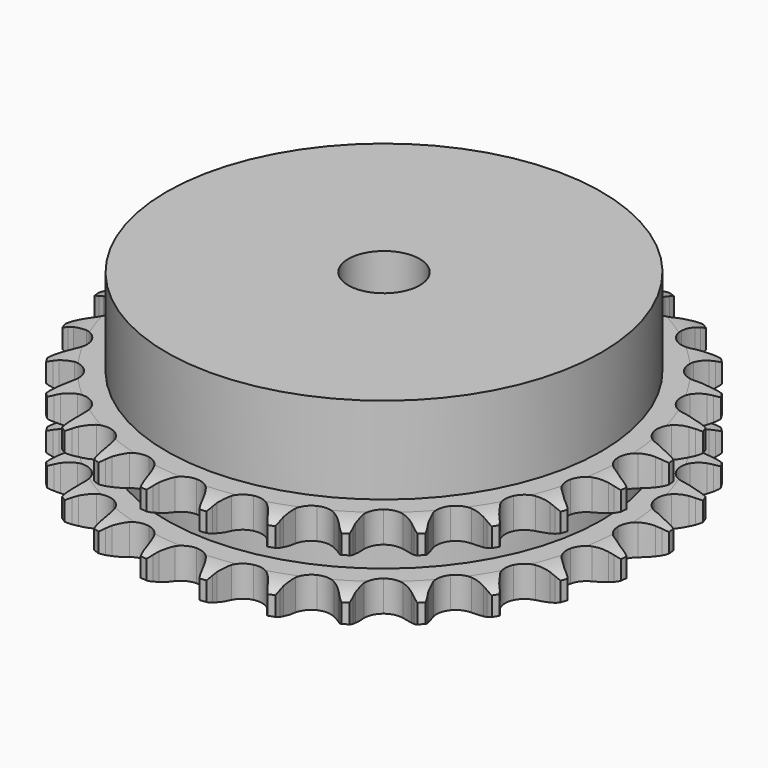
from build123d import *

# Parameters (mm, degrees)
PAD_DEPTH         = 15.4
SKETCH001_R       = 36.5
PAD001_DEPTH      = 30
SKETCH002_R       = 6
POCKET_DEPTH      = 0.001
POCKET_DEPTH_BACK = 30.001


with BuildPart() as part:
    # Sprocket → Pad (new body)
    with BuildSketch(Plane.XY):
        with BuildLine():
            ThreePointArc((-5.081632, 45.100731), (-4.462733, 44.305911), (-4.009624, 43.406207))
            Line((-4.009624, 43.406207), (-3.700215, 42.606137))
            ThreePointArc((-3.700215, 42.606137), (-3.207694, 41.556761), (-2.573921, 40.586143))
            ThreePointArc((-2.573921, 40.586143), (-1.437158, 39.644298), (0, 39.306838))
            ThreePointArc((0, 39.306838), (1.437158, 39.644298), (2.573921, 40.586143))
            ThreePointArc((2.573921, 40.586143), (3.207694, 41.556761), (3.700215, 42.606137))
            Line((3.700215, 42.606137), (4.009624, 43.406207))
            ThreePointArc((4.009624, 43.406207), (4.462733, 44.305911), (5.081632, 45.100731))
            ThreePointArc((5.081632, 45.100731), (5.508149, 44.188121), (5.749696, 43.210148))
            Line((5.749696, 43.210148), (5.873315, 42.361288))
            ThreePointArc((5.873315, 42.361288), (6.119979, 41.228626), (6.521879, 40.141315))
            ThreePointArc((6.521879, 40.141315), (7.420561, 38.970131), (8.746594, 38.321333))
            ThreePointArc((8.746594, 38.321333), (10.222812, 38.330535), (11.540654, 38.995813))
            Line((11.540654, 38.995813), (13.0882, 40.714537))
            ThreePointArc((13.0882, 40.714537), (13.318858, 41.076312), (13.567884, 41.425697))
            ThreePointArc((13.567884, 41.425697), (14.209836, 42.202017), (14.990082, 42.839192))
            ThreePointArc((14.990082, 42.839192), (15.20283, 41.854554), (15.220701, 40.847352))
            Line((15.220701, 40.847352), (15.152332, 39.992266))
            ThreePointArc((15.152332, 39.992266), (15.140771, 38.833114), (15.290645, 37.683634))
            ThreePointArc((15.290645, 37.683634), (15.906182, 36.341838), (17.054598, 35.414237))
            ThreePointArc((17.054598, 35.414237), (18.495851, 35.094719), (19.92869, 35.450069))
            Line((19.92869, 35.450069), (21.819889, 36.78134))
            ThreePointArc((21.819889, 36.78134), (22.125266, 37.082718), (22.445794, 37.36793))
            ThreePointArc((22.445794, 37.36793), (23.244398, 37.981939), (24.146866, 38.429517))
            ThreePointArc((24.146866, 38.429517), (24.135178, 37.422225), (23.928477, 36.436299))
            Line((23.928477, 36.436299), (23.671548, 35.617866))
            ThreePointArc((23.671548, 35.617866), (23.402341, 34.490349), (23.292674, 33.336338))
            ThreePointArc((23.292674, 33.336338), (23.5942, 31.891214), (24.507413, 30.731323))
            ThreePointArc((24.507413, 30.731323), (25.841431, 30.099107), (27.317419, 30.126711))
            Line((27.317419, 30.126711), (29.457437, 31.003773))
            ThreePointArc((29.457437, 31.003773), (29.822221, 31.229642), (30.198177, 31.43638))
            ThreePointArc((30.198177, 31.43638), (31.113389, 31.857287), (32.092826, 32.092826))
            ThreePointArc((32.092826, 32.092826), (31.857287, 31.113389), (31.43638, 30.198177))
            Line((31.43638, 30.198177), (31.003773, 29.457437))
            ThreePointArc((31.003773, 29.457437), (30.49042, 28.418093), (30.126711, 27.317419))
            ThreePointArc((30.126711, 27.317419), (30.099107, 25.841431), (30.731323, 24.507413))
            ThreePointArc((30.731323, 24.507413), (31.891214, 23.5942), (33.336338, 23.292674))
            Line((33.336338, 23.292674), (35.617866, 23.671548))
            ThreePointArc((35.617866, 23.671548), (36.023764, 23.810581), (36.436299, 23.928477))
            ThreePointArc((36.436299, 23.928477), (37.422225, 24.135178), (38.429517, 24.146866))
            ThreePointArc((38.429517, 24.146866), (37.981939, 23.244398), (37.36793, 22.445794))
            Line((37.36793, 22.445794), (36.78134, 21.819889))
            ThreePointArc((36.78134, 21.819889), (36.049582, 20.920835), (35.450069, 19.92869))
            ThreePointArc((35.450069, 19.92869), (35.094719, 18.495851), (35.414237, 17.054598))
            ThreePointArc((35.414237, 17.054598), (36.341838, 15.906182), (37.683634, 15.290645))
            Line((37.683634, 15.290645), (39.992266, 15.152332))
            ThreePointArc((39.992266, 15.152332), (40.418926, 15.197559), (40.847352, 15.220701))
            ThreePointArc((40.847352, 15.220701), (41.854554, 15.20283), (42.839192, 14.990082))
            ThreePointArc((42.839192, 14.990082), (42.202017, 14.209836), (41.425697, 13.567884))
            Line((41.425697, 13.567884), (40.714537, 13.0882))
            ThreePointArc((40.714537, 13.0882), (39.801067, 12.37452), (38.995813, 11.540654))
            ThreePointArc((38.995813, 11.540654), (38.330535, 10.222812), (38.321333, 8.746594))
            ThreePointArc((38.321333, 8.746594), (38.970131, 7.420561), (40.141315, 6.521879))
            Line((40.141315, 6.521879), (42.361288, 5.873315))
            ThreePointArc((42.361288, 5.873315), (42.787314, 5.822467), (43.210148, 5.749696))
            ThreePointArc((43.210148, 5.749696), (44.188121, 5.508149), (45.100731, 5.081632))
            ThreePointArc((45.100731, 5.081632), (44.305911, 4.462733), (43.406207, 4.009624))
            Line((43.406207, 4.009624), (42.606137, 3.700215))
            ThreePointArc((42.606137, 3.700215), (41.556761, 3.207694), (40.586143, 2.573921))
            ThreePointArc((40.586143, 2.573921), (39.644298, 1.437158), (39.306838, 0))
            ThreePointArc((39.306838, 0), (39.644298, -1.437158), (40.586143, -2.573921))
            Line((40.586143, -2.573921), (42.606137, -3.700215))
            ThreePointArc((42.606137, -3.700215), (43.010168, -3.844588), (43.406207, -4.009624))
            ThreePointArc((43.406207, -4.009624), (44.305911, -4.462733), (45.100731, -5.081632))
            ThreePointArc((45.100731, -5.081632), (44.188121, -5.508149), (43.210148, -5.749696))
            Line((43.210148, -5.749696), (42.361288, -5.873315))
            ThreePointArc((42.361288, -5.873315), (41.228626, -6.119979), (40.141315, -6.521879))
            ThreePointArc((40.141315, -6.521879), (38.970131, -7.420561), (38.321333, -8.746594))
            ThreePointArc((38.321333, -8.746594), (38.330535, -10.222812), (38.995813, -11.540654))
            Line((38.995813, -11.540654), (40.714537, -13.0882))
            ThreePointArc((40.714537, -13.0882), (41.076312, -13.318858), (41.425697, -13.567884))
            ThreePointArc((41.425697, -13.567884), (42.202017, -14.209836), (42.839192, -14.990082))
            ThreePointArc((42.839192, -14.990082), (41.854554, -15.20283), (40.847352, -15.220701))
            Line((40.847352, -15.220701), (39.992266, -15.152332))
            ThreePointArc((39.992266, -15.152332), (38.833114, -15.140771), (37.683634, -15.290645))
            ThreePointArc((37.683634, -15.290645), (36.341838, -15.906182), (35.414237, -17.054598))
            ThreePointArc((35.414237, -17.054598), (35.094719, -18.495851), (35.450069, -19.92869))
            Line((35.450069, -19.92869), (36.78134, -21.819889))
            ThreePointArc((36.78134, -21.819889), (37.082718, -22.125266), (37.36793, -22.445794))
            ThreePointArc((37.36793, -22.445794), (37.981939, -23.244398), (38.429517, -24.146866))
            ThreePointArc((38.429517, -24.146866), (37.422225, -24.135178), (36.436299, -23.928477))
            Line((36.436299, -23.928477), (35.617866, -23.671548))
            ThreePointArc((35.617866, -23.671548), (34.490349, -23.402341), (33.336338, -23.292674))
            ThreePointArc((33.336338, -23.292674), (31.891214, -23.5942), (30.731323, -24.507413))
            ThreePointArc((30.731323, -24.507413), (30.099107, -25.841431), (30.126711, -27.317419))
            Line((30.126711, -27.317419), (31.003773, -29.457437))
            ThreePointArc((31.003773, -29.457437), (31.229642, -29.822221), (31.43638, -30.198177))
            ThreePointArc((31.43638, -30.198177), (31.857287, -31.113389), (32.092826, -32.092826))
            ThreePointArc((32.092826, -32.092826), (31.113389, -31.857287), (30.198177, -31.43638))
            Line((30.198177, -31.43638), (29.457437, -31.003773))
            ThreePointArc((29.457437, -31.003773), (28.418093, -30.49042), (27.317419, -30.126711))
            ThreePointArc((27.317419, -30.126711), (25.841431, -30.099107), (24.507413, -30.731323))
            ThreePointArc((24.507413, -30.731323), (23.5942, -31.891214), (23.292674, -33.336338))
            Line((23.292674, -33.336338), (23.671548, -35.617866))
            ThreePointArc((23.671548, -35.617866), (23.810581, -36.023764), (23.928477, -36.436299))
            ThreePointArc((23.928477, -36.436299), (24.135178, -37.422225), (24.146866, -38.429517))
            ThreePointArc((24.146866, -38.429517), (23.244398, -37.981939), (22.445794, -37.36793))
            Line((22.445794, -37.36793), (21.819889, -36.78134))
            ThreePointArc((21.819889, -36.78134), (20.920835, -36.049582), (19.92869, -35.450069))
            ThreePointArc((19.92869, -35.450069), (18.495851, -35.094719), (17.054598, -35.414237))
            ThreePointArc((17.054598, -35.414237), (15.906182, -36.341838), (15.290645, -37.683634))
            Line((15.290645, -37.683634), (15.152332, -39.992266))
            ThreePointArc((15.152332, -39.992266), (15.197559, -40.418926), (15.220701, -40.847352))
            ThreePointArc((15.220701, -40.847352), (15.20283, -41.854554), (14.990082, -42.839192))
            ThreePointArc((14.990082, -42.839192), (14.209836, -42.202017), (13.567884, -41.425697))
            Line((13.567884, -41.425697), (13.0882, -40.714537))
            ThreePointArc((13.0882, -40.714537), (12.37452, -39.801067), (11.540654, -38.995813))
            ThreePointArc((11.540654, -38.995813), (10.222812, -38.330535), (8.746594, -38.321333))
            ThreePointArc((8.746594, -38.321333), (7.420561, -38.970131), (6.521879, -40.141315))
            Line((6.521879, -40.141315), (5.873315, -42.361288))
            ThreePointArc((5.873315, -42.361288), (5.822467, -42.787314), (5.749696, -43.210148))
            ThreePointArc((5.749696, -43.210148), (5.508149, -44.188121), (5.081632, -45.100731))
            ThreePointArc((5.081632, -45.100731), (4.462733, -44.305911), (4.009624, -43.406207))
            Line((4.009624, -43.406207), (3.700215, -42.606137))
            ThreePointArc((3.700215, -42.606137), (3.207694, -41.556761), (2.573921, -40.586143))
            ThreePointArc((2.573921, -40.586143), (1.437158, -39.644298), (0, -39.306838))
            ThreePointArc((0, -39.306838), (-1.437158, -39.644298), (-2.573921, -40.586143))
            Line((-2.573921, -40.586143), (-3.700215, -42.606137))
            ThreePointArc((-3.700215, -42.606137), (-3.844588, -43.010168), (-4.009624, -43.406207))
            ThreePointArc((-4.009624, -43.406207), (-4.462733, -44.305911), (-5.081632, -45.100731))
            ThreePointArc((-5.081632, -45.100731), (-5.508149, -44.188121), (-5.749696, -43.210148))
            Line((-5.749696, -43.210148), (-5.873315, -42.361288))
            ThreePointArc((-5.873315, -42.361288), (-6.119979, -41.228626), (-6.521879, -40.141315))
            ThreePointArc((-6.521879, -40.141315), (-7.420561, -38.970131), (-8.746594, -38.321333))
            ThreePointArc((-8.746594, -38.321333), (-10.222812, -38.330535), (-11.540654, -38.995813))
            Line((-11.540654, -38.995813), (-13.0882, -40.714537))
            ThreePointArc((-13.0882, -40.714537), (-13.318858, -41.076312), (-13.567884, -41.425697))
            ThreePointArc((-13.567884, -41.425697), (-14.209836, -42.202017), (-14.990082, -42.839192))
            ThreePointArc((-14.990082, -42.839192), (-15.20283, -41.854554), (-15.220701, -40.847352))
            Line((-15.220701, -40.847352), (-15.152332, -39.992266))
            ThreePointArc((-15.152332, -39.992266), (-15.140771, -38.833114), (-15.290645, -37.683634))
            ThreePointArc((-15.290645, -37.683634), (-15.906182, -36.341838), (-17.054598, -35.414237))
            ThreePointArc((-17.054598, -35.414237), (-18.495851, -35.094719), (-19.92869, -35.450069))
            Line((-19.92869, -35.450069), (-21.819889, -36.78134))
            ThreePointArc((-21.819889, -36.78134), (-22.125266, -37.082718), (-22.445794, -37.36793))
            ThreePointArc((-22.445794, -37.36793), (-23.244398, -37.981939), (-24.146866, -38.429517))
            ThreePointArc((-24.146866, -38.429517), (-24.135178, -37.422225), (-23.928477, -36.436299))
            Line((-23.928477, -36.436299), (-23.671548, -35.617866))
            ThreePointArc((-23.671548, -35.617866), (-23.402341, -34.490349), (-23.292674, -33.336338))
            ThreePointArc((-23.292674, -33.336338), (-23.5942, -31.891214), (-24.507413, -30.731323))
            ThreePointArc((-24.507413, -30.731323), (-25.841431, -30.099107), (-27.317419, -30.126711))
            Line((-27.317419, -30.126711), (-29.457437, -31.003773))
            ThreePointArc((-29.457437, -31.003773), (-29.822221, -31.229642), (-30.198177, -31.43638))
            ThreePointArc((-30.198177, -31.43638), (-31.113389, -31.857287), (-32.092826, -32.092826))
            ThreePointArc((-32.092826, -32.092826), (-31.857287, -31.113389), (-31.43638, -30.198177))
            Line((-31.43638, -30.198177), (-31.003773, -29.457437))
            ThreePointArc((-31.003773, -29.457437), (-30.49042, -28.418093), (-30.126711, -27.317419))
            ThreePointArc((-30.126711, -27.317419), (-30.099107, -25.841431), (-30.731323, -24.507413))
            ThreePointArc((-30.731323, -24.507413), (-31.891214, -23.5942), (-33.336338, -23.292674))
            Line((-33.336338, -23.292674), (-35.617866, -23.671548))
            ThreePointArc((-35.617866, -23.671548), (-36.023764, -23.810581), (-36.436299, -23.928477))
            ThreePointArc((-36.436299, -23.928477), (-37.422225, -24.135178), (-38.429517, -24.146866))
            ThreePointArc((-38.429517, -24.146866), (-37.981939, -23.244398), (-37.36793, -22.445794))
            Line((-37.36793, -22.445794), (-36.78134, -21.819889))
            ThreePointArc((-36.78134, -21.819889), (-36.049582, -20.920835), (-35.450069, -19.92869))
            ThreePointArc((-35.450069, -19.92869), (-35.094719, -18.495851), (-35.414237, -17.054598))
            ThreePointArc((-35.414237, -17.054598), (-36.341838, -15.906182), (-37.683634, -15.290645))
            Line((-37.683634, -15.290645), (-39.992266, -15.152332))
            ThreePointArc((-39.992266, -15.152332), (-40.418926, -15.197559), (-40.847352, -15.220701))
            ThreePointArc((-40.847352, -15.220701), (-41.854554, -15.20283), (-42.839192, -14.990082))
            ThreePointArc((-42.839192, -14.990082), (-42.202017, -14.209836), (-41.425697, -13.567884))
            Line((-41.425697, -13.567884), (-40.714537, -13.0882))
            ThreePointArc((-40.714537, -13.0882), (-39.801067, -12.37452), (-38.995813, -11.540654))
            ThreePointArc((-38.995813, -11.540654), (-38.330535, -10.222812), (-38.321333, -8.746594))
            ThreePointArc((-38.321333, -8.746594), (-38.970131, -7.420561), (-40.141315, -6.521879))
            Line((-40.141315, -6.521879), (-42.361288, -5.873315))
            ThreePointArc((-42.361288, -5.873315), (-42.787314, -5.822467), (-43.210148, -5.749696))
            ThreePointArc((-43.210148, -5.749696), (-44.188121, -5.508149), (-45.100731, -5.081632))
            ThreePointArc((-45.100731, -5.081632), (-44.305911, -4.462733), (-43.406207, -4.009624))
            Line((-43.406207, -4.009624), (-42.606137, -3.700215))
            ThreePointArc((-42.606137, -3.700215), (-41.556761, -3.207694), (-40.586143, -2.573921))
            ThreePointArc((-40.586143, -2.573921), (-39.644298, -1.437158), (-39.306838, 0))
            ThreePointArc((-39.306838, 0), (-39.644298, 1.437158), (-40.586143, 2.573921))
            Line((-40.586143, 2.573921), (-42.606137, 3.700215))
            ThreePointArc((-42.606137, 3.700215), (-43.010168, 3.844588), (-43.406207, 4.009624))
            ThreePointArc((-43.406207, 4.009624), (-44.305911, 4.462733), (-45.100731, 5.081632))
            ThreePointArc((-45.100731, 5.081632), (-44.188121, 5.508149), (-43.210148, 5.749696))
            Line((-43.210148, 5.749696), (-42.361288, 5.873315))
            ThreePointArc((-42.361288, 5.873315), (-41.228626, 6.119979), (-40.141315, 6.521879))
            ThreePointArc((-40.141315, 6.521879), (-38.970131, 7.420561), (-38.321333, 8.746594))
            ThreePointArc((-38.321333, 8.746594), (-38.330535, 10.222812), (-38.995813, 11.540654))
            Line((-38.995813, 11.540654), (-40.714537, 13.0882))
            ThreePointArc((-40.714537, 13.0882), (-41.076312, 13.318858), (-41.425697, 13.567884))
            ThreePointArc((-41.425697, 13.567884), (-42.202017, 14.209836), (-42.839192, 14.990082))
            ThreePointArc((-42.839192, 14.990082), (-41.854554, 15.20283), (-40.847352, 15.220701))
            Line((-40.847352, 15.220701), (-39.992266, 15.152332))
            ThreePointArc((-39.992266, 15.152332), (-38.833114, 15.140771), (-37.683634, 15.290645))
            ThreePointArc((-37.683634, 15.290645), (-36.341838, 15.906182), (-35.414237, 17.054598))
            ThreePointArc((-35.414237, 17.054598), (-35.094719, 18.495851), (-35.450069, 19.92869))
            Line((-35.450069, 19.92869), (-36.78134, 21.819889))
            ThreePointArc((-36.78134, 21.819889), (-37.082718, 22.125266), (-37.36793, 22.445794))
            ThreePointArc((-37.36793, 22.445794), (-37.981939, 23.244398), (-38.429517, 24.146866))
            ThreePointArc((-38.429517, 24.146866), (-37.422225, 24.135178), (-36.436299, 23.928477))
            Line((-36.436299, 23.928477), (-35.617866, 23.671548))
            ThreePointArc((-35.617866, 23.671548), (-34.490349, 23.402341), (-33.336338, 23.292674))
            ThreePointArc((-33.336338, 23.292674), (-31.891214, 23.5942), (-30.731323, 24.507413))
            ThreePointArc((-30.731323, 24.507413), (-30.099107, 25.841431), (-30.126711, 27.317419))
            Line((-30.126711, 27.317419), (-31.003773, 29.457437))
            ThreePointArc((-31.003773, 29.457437), (-31.229642, 29.822221), (-31.43638, 30.198177))
            ThreePointArc((-31.43638, 30.198177), (-31.857287, 31.113389), (-32.092826, 32.092826))
            ThreePointArc((-32.092826, 32.092826), (-31.113389, 31.857287), (-30.198177, 31.43638))
            Line((-30.198177, 31.43638), (-29.457437, 31.003773))
            ThreePointArc((-29.457437, 31.003773), (-28.418093, 30.49042), (-27.317419, 30.126711))
            ThreePointArc((-27.317419, 30.126711), (-25.841431, 30.099107), (-24.507413, 30.731323))
            ThreePointArc((-24.507413, 30.731323), (-23.5942, 31.891214), (-23.292674, 33.336338))
            Line((-23.292674, 33.336338), (-23.671548, 35.617866))
            ThreePointArc((-23.671548, 35.617866), (-23.810581, 36.023764), (-23.928477, 36.436299))
            ThreePointArc((-23.928477, 36.436299), (-24.135178, 37.422225), (-24.146866, 38.429517))
            ThreePointArc((-24.146866, 38.429517), (-23.244398, 37.981939), (-22.445794, 37.36793))
            Line((-22.445794, 37.36793), (-21.819889, 36.78134))
            ThreePointArc((-21.819889, 36.78134), (-20.920835, 36.049582), (-19.92869, 35.450069))
            ThreePointArc((-19.92869, 35.450069), (-18.495851, 35.094719), (-17.054598, 35.414237))
            ThreePointArc((-17.054598, 35.414237), (-15.906182, 36.341838), (-15.290645, 37.683634))
            Line((-15.290645, 37.683634), (-15.152332, 39.992266))
            ThreePointArc((-15.152332, 39.992266), (-15.197559, 40.418926), (-15.220701, 40.847352))
            ThreePointArc((-15.220701, 40.847352), (-15.20283, 41.854554), (-14.990082, 42.839192))
            ThreePointArc((-14.990082, 42.839192), (-14.209836, 42.202017), (-13.567884, 41.425697))
            Line((-13.567884, 41.425697), (-13.0882, 40.714537))
            ThreePointArc((-13.0882, 40.714537), (-12.37452, 39.801067), (-11.540654, 38.995813))
            ThreePointArc((-11.540654, 38.995813), (-10.222812, 38.330535), (-8.746594, 38.321333))
            ThreePointArc((-8.746594, 38.321333), (-7.420561, 38.970131), (-6.521879, 40.141315))
            Line((-6.521879, 40.141315), (-5.873315, 42.361288))
            ThreePointArc((-5.873315, 42.361288), (-5.822467, 42.787314), (-5.749696, 43.210148))
            ThreePointArc((-5.749696, 43.210148), (-5.508149, 44.188121), (-5.081632, 45.100731))
        make_face()
    extrude(amount=PAD_DEPTH)

    # Sketch → Groove (revolve, cut)
    with BuildSketch(Plane.XZ):
        with BuildLine():
            ThreePointArc((40.141101, 0), (42.377169, 0.253206), (44.5, 1))
            Line((44.5, 1), (44.5, 4.2))
            ThreePointArc((44.5, 4.2), (42.377169, 4.946794), (40.141101, 5.2))
            Line((36.5, 5.2), (40.141101, 5.2))
            Line((36.5, 10.2), (36.5, 5.2))
            Line((40.141101, 10.2), (36.5, 10.2))
            ThreePointArc((40.141101, 10.2), (42.377169, 10.453206), (44.5, 11.2))
            Line((44.5, 11.2), (44.5, 14.4))
            ThreePointArc((44.5, 14.4), (42.377169, 15.146794), (40.141101, 15.4))
            Line((40.141101, 15.4), (50.141101, 15.4))
            Line((50.141101, 15.4), (50.141101, 0))
            Line((40.141101, 0), (50.141101, 0))
        make_face()
    revolve(axis=Axis((0, 0, 0), (0, 0, 1)), mode=Mode.SUBTRACT)

    # Sketch001 → Pad001 (join)
    with BuildSketch(Plane.XY):
        Circle(SKETCH001_R)
    extrude(amount=PAD001_DEPTH)

    # Sketch002 → Pocket (cut, two sides)
    with BuildSketch(Plane.XY) as pocket_sk:
        Circle(SKETCH002_R)
    extrude(amount=-POCKET_DEPTH, mode=Mode.SUBTRACT)
    extrude(pocket_sk.sketch, amount=POCKET_DEPTH_BACK, mode=Mode.SUBTRACT)


solid = part.part
